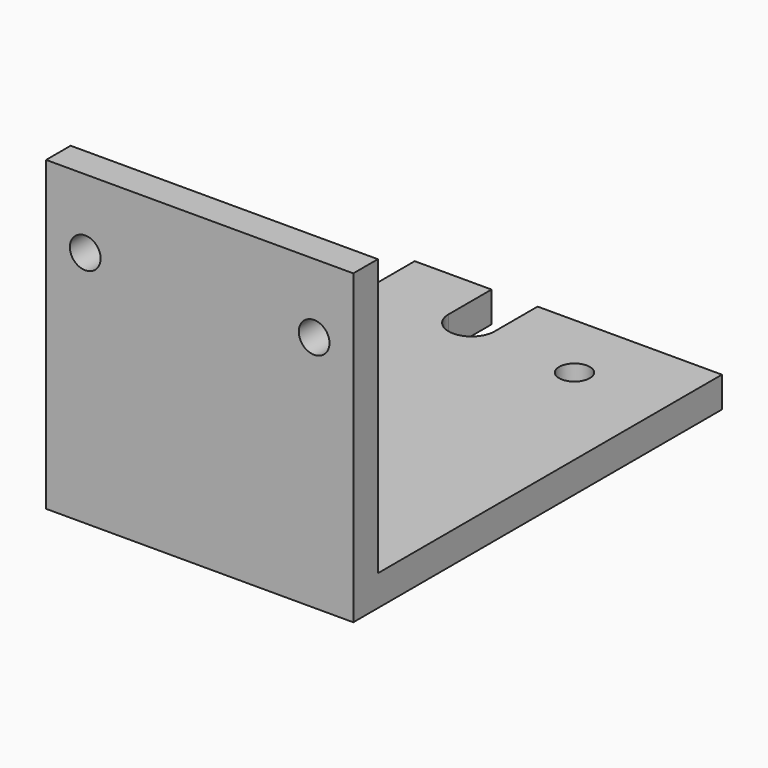
from build123d import *

# Parameters (mm, degrees)
CYLINDER002_R     = 2
CYLINDER002_DEPTH = 4
CYLINDER003_R     = 3
CYLINDER003_DEPTH = 4
BOX002_W          = 6
BOX002_H          = 7
BOX002_DEPTH      = 4
CYLINDER_R        = 2
CYLINDER_DEPTH    = 4
CYLINDER001_R     = 2
CYLINDER001_DEPTH = 4
BOX_W             = 40
BOX_H             = 60
BOX_DEPTH         = 4
BOX001_W          = 40
BOX001_H          = 4
BOX001_DEPTH      = 40


with BuildPart() as obj1:
    # Cylinder002 → Cylinder002 (new body)
    with BuildSketch(Plane(origin=(28, 51, 0), x_dir=(1, 0, 0), z_dir=(0, 0, 1))):
        Circle(CYLINDER002_R)
    extrude(amount=CYLINDER002_DEPTH)


with BuildPart() as cilindro003:
    # Cylinder003 → Cylinder003 (new body)
    with BuildSketch(Plane(origin=(13, 53, 0), x_dir=(1, 0, 0), z_dir=(0, 0, 1))):
        Circle(CYLINDER003_R)
    extrude(amount=CYLINDER003_DEPTH)


with BuildPart() as obj1_del_hotend:
    # Box002 → Box002 (new body)
    with BuildSketch(Plane(origin=(10, 53, 0), x_dir=(1, 0, 0), z_dir=(0, 0, 1))):
        with Locations((3, 3.5)):
            Rectangle(BOX002_W, BOX002_H)
    extrude(amount=BOX002_DEPTH)

    # Fusion002: union Cilindro003
    add(cilindro003.part)


with BuildPart() as cylinder:
    # Cylinder → Cylinder (new body)
    with BuildSketch(Plane(origin=(5.1, 4, 31), x_dir=(0, 0, 1), z_dir=(0, -1, 0))):
        Circle(CYLINDER_R)
    extrude(amount=CYLINDER_DEPTH)


with BuildPart() as agujeros_roscados_m4:
    # Cylinder001 → Cylinder001 (new body)
    with BuildSketch(Plane(origin=(34.9, 4, 31), x_dir=(0, 0, 1), z_dir=(0, -1, 0))):
        Circle(CYLINDER001_R)
    extrude(amount=CYLINDER001_DEPTH)

    # Fusion001: union Cylinder
    add(cylinder.part)


with BuildPart() as cubo:
    # Box → Box (new body)
    with BuildSketch(Plane.XY):
        with Locations((20, 30)):
            Rectangle(BOX_W, BOX_H)
    extrude(amount=BOX_DEPTH)


with BuildPart() as obj2:
    # Box001 → Box001 (new body)
    with BuildSketch(Plane.XY):
        with Locations((20, 2)):
            Rectangle(BOX001_W, BOX001_H)
    extrude(amount=BOX001_DEPTH)

    # Fusion: union Cubo
    add(cubo.part)

    # Cut: cut Agujeros roscados M4
    add(agujeros_roscados_m4.part, mode=Mode.SUBTRACT)

    # Cut001: cut obj1_del_hotend
    add(obj1_del_hotend.part, mode=Mode.SUBTRACT)

    # Cut002: cut obj1
    add(obj1.part, mode=Mode.SUBTRACT)


solid = obj2.part
